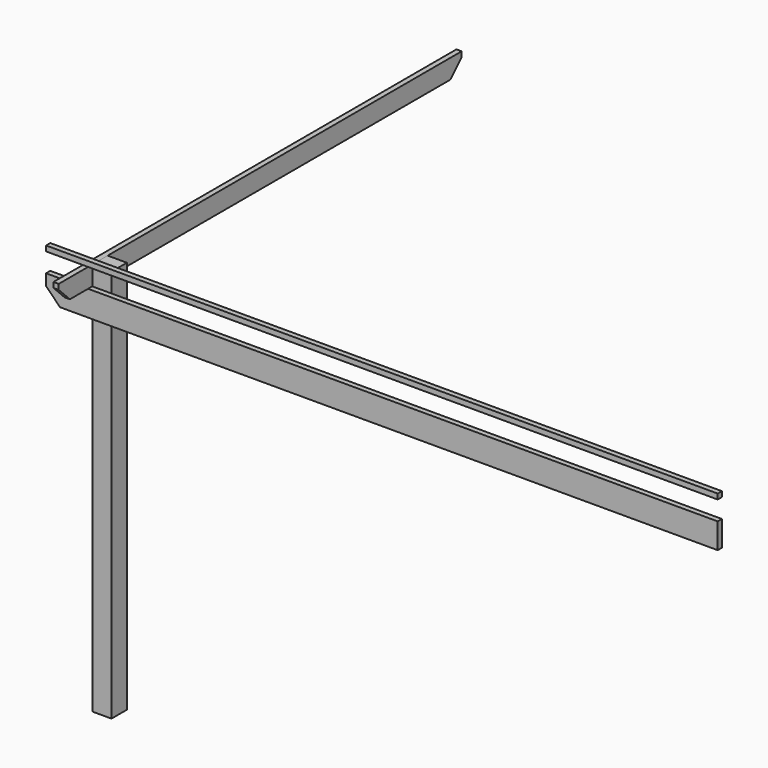
from build123d import *

# Parameters (mm, degrees)
F0_W     = 139.7
F0_H     = 139.7
F1_DEPTH = 2857.5
F2_W     = 4876.8
F2_H     = 184.15
F3_DEPTH = 38.1
F4_SIZE  = 101.6
F6_DEPTH = 38.1
F7_SIZE  = 101.6
F8_W     = 4876.8
F8_H     = 38.1
F9_DEPTH = 38.1


with BuildPart() as f1:
    # F0 (on Top) → F1 (new body)
    with BuildSketch(Plane.XY):
        with Locations((69.85, 69.85)):
            Rectangle(F0_W, F0_H)
    extrude(amount=F1_DEPTH)


with BuildPart() as f3:
    # F2 (on face) → F3 (new body)
    with BuildSketch(Plane.XZ):
        with Locations((2133.6, 2625.725)):
            Rectangle(F2_W, F2_H)
    extrude(amount=F3_DEPTH)

    # F4
    f4_edges = [f3.edges().sort_by_distance(p)[0] for p in [
        (-304.8, -19.05, 2533.65),
    ]]
    chamfer(f4_edges, length=F4_SIZE)


with BuildPart() as f6:
    # F5 (on Right) → F6 (new body)
    with BuildSketch(Plane.YZ):
        Polygon((3352.8, 2857.5), (-304.8, 2857.5), (-304.8, 2717.8), (-38.1, 2717.8), (0, 2717.8), (3352.8, 2717.8), align=None)
    extrude(amount=-F6_DEPTH)

    # F7
    f7_edges = [f6.edges().sort_by_distance(p)[0] for p in [
        (-19.05, -304.8, 2717.8),
        (-19.05, 3352.8, 2717.8),
    ]]
    chamfer(f7_edges, length=F7_SIZE)


with BuildPart() as f9:
    # F8 (on Front) → F9 (new body)
    with BuildSketch(Plane.XZ):
        with Locations((2133.6, 2876.55)):
            Rectangle(F8_W, F8_H)
    extrude(amount=F9_DEPTH)


solid = Compound([f1.part, f3.part, f6.part, f9.part])
